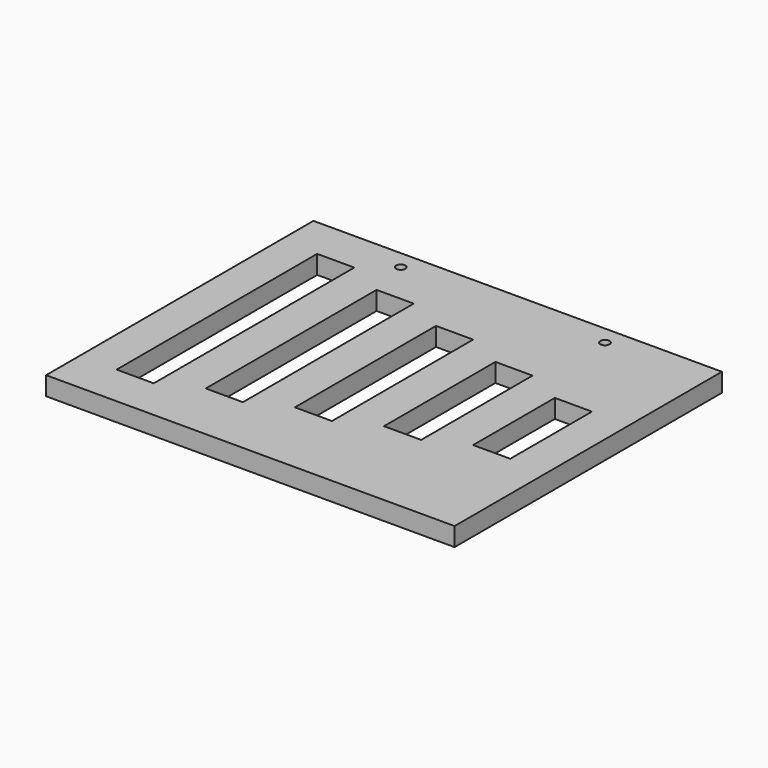
from build123d import *

# Parameters (mm, degrees)
F0_W     = 279.4
F0_H     = 228.6
F0_W_2   = 25.4
F0_H_2   = 171.45
F0_H_3   = 146.05
F0_R     = 3.175
F0_H_4   = 120.65
F0_H_5   = 95.25
F0_H_6   = 69.85
F1_DEPTH = 12.7


with BuildPart() as f1:
    # F0 (on Top) → F1 (new body)
    with BuildSketch(Plane.XY):
        with Locations((-101.6, 0)):
            Rectangle(F0_W, F0_H)
        with Locations((-203.2, 0)):
            Rectangle(F0_W_2, F0_H_2, mode=Mode.SUBTRACT)
        with Locations((-152.4, 0)):
            Rectangle(F0_W_2, F0_H_3, mode=Mode.SUBTRACT)
        with Locations((-171.45, 101.6)):
            Circle(F0_R, mode=Mode.SUBTRACT)
        with Locations((-101.6, 0)):
            Rectangle(F0_W_2, F0_H_4, mode=Mode.SUBTRACT)
        with Locations((-50.8, 0)):
            Rectangle(F0_W_2, F0_H_5, mode=Mode.SUBTRACT)
        Rectangle(F0_W_2, F0_H_6, mode=Mode.SUBTRACT)
        with Locations((-31.75, 101.6)):
            Circle(F0_R, mode=Mode.SUBTRACT)
    extrude(amount=F1_DEPTH)


solid = f1.part
